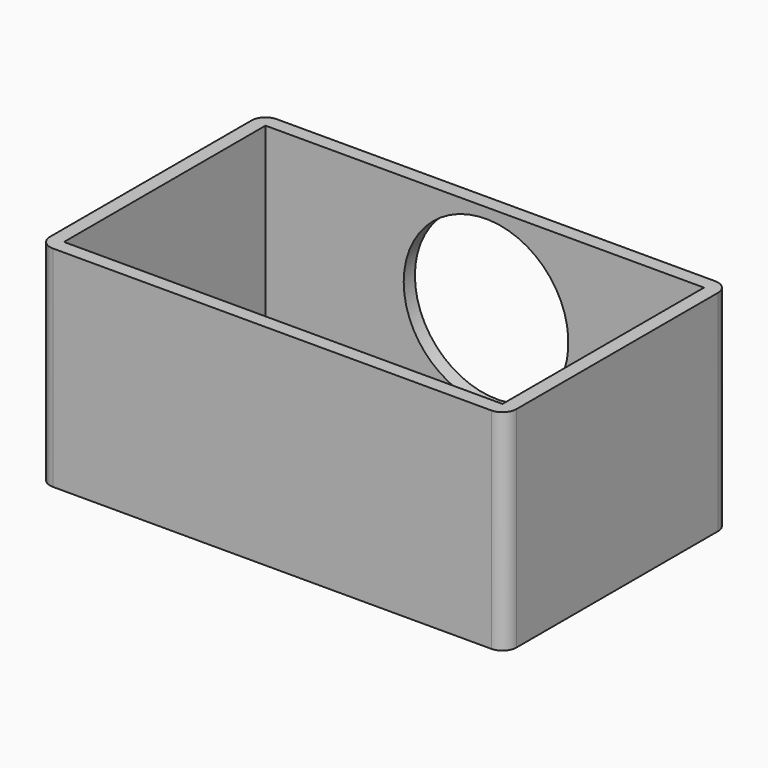
from build123d import *

# Parameters (mm, degrees)
F0_W     = 100
F0_H     = 60
F1_DEPTH = 45
F2_W     = 94
F2_H     = 54
F3_DEPTH = 42
F4_R     = 3
F5_R     = 17.648561216
F6_DEPTH = 25


with BuildPart() as f1:
    # F0 (on Top) → F1 (new body)
    with BuildSketch(Plane.XY):
        with Locations((50, -30)):
            Rectangle(F0_W, F0_H)
    extrude(amount=F1_DEPTH)

    # F2 (on face) → F3 (cut, through all)
    with BuildSketch(Plane.XY.offset(45)):
        with Locations((50, -30)):
            Rectangle(F2_W, F2_H)
    extrude(amount=-F3_DEPTH, mode=Mode.SUBTRACT)

    # F4
    f4_edges = [f1.edges().sort_by_distance(p)[0] for p in [
        (100, -60, 22.5),
        (100, 0, 22.5),
        (0, 0, 22.5),
        (0, -60, 22.5),
    ]]
    fillet(f4_edges, radius=F4_R)

    # F5 (on face) → F6 (cut)
    with BuildSketch(Plane(origin=(0, 0, 0), x_dir=(-1, 0, 0), z_dir=(0, 1, 0))):
        with Locations((-50.2731017768, 25.1400116831)):
            Circle(F5_R)
    extrude(amount=-F6_DEPTH, mode=Mode.SUBTRACT)


solid = f1.part
